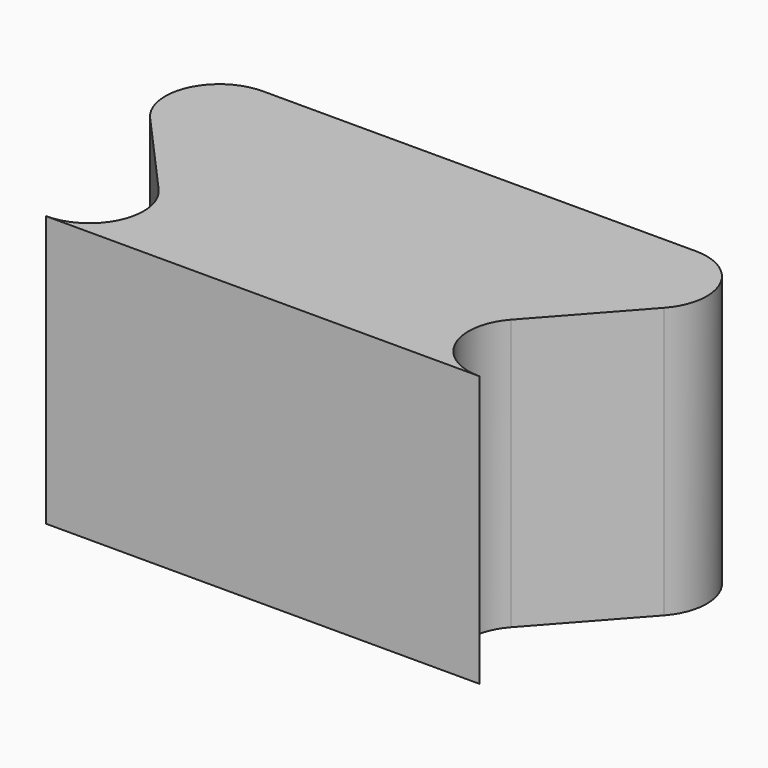
from build123d import *

# Parameters (mm, degrees)
F1_DEPTH = 5


with BuildPart() as f1:
    # F0 (on Top) → F1 (new body)
    with BuildSketch(Plane.XY):
        with BuildLine():
            Line((0, 5), (-4, 5))
            ThreePointArc((-4, 5), (-4.912871, 4.408248), (-4.745356, 3.333333))
            Line((-4.745356, 3.333333), (-3.254644, 1.666667))
            ThreePointArc((-3.254644, 1.666667), (-3.087129, 0.591752), (-4, 0))
            Line((-4, 0), (0, 0))
            Line((0, 0), (0, 5))
        make_face()
    extrude(amount=F1_DEPTH)

    # F2: F1 across face


with BuildPart() as f1_1:
    add(f1.part)
    add(f1.part.mirror(Plane(origin=(0, 2.5, 2.5), x_dir=(0, 1, 0), z_dir=(1, 0, 0))))


solid = f1_1.part
